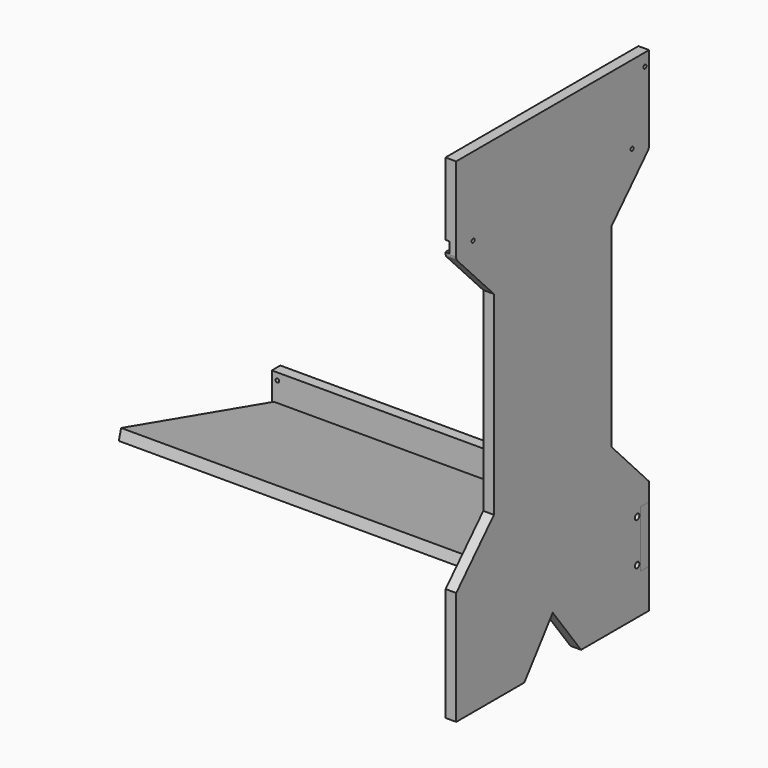
from build123d import *

# Parameters (mm, degrees)
F1_DEPTH  = 19.05
F2_W      = 19.05
F2_H      = 101.6
F3_DEPTH  = 660.4
F5_DEPTH  = 7.62
F7_DEPTH  = 7.62
F9_DEPTH  = 637.54
F10_R     = 3.302
F11_DEPTH = 19.05
F12_R     = 3.302
F13_DEPTH = 19.05
F14_R     = 5.08
F15_DEPTH = 16.002


with BuildPart() as f1:
    # F0 (on Right) → F1 (new body)
    with BuildSketch(Plane.YZ):
        with BuildLine():
            Line((215.5718380434, -73.1457177276), (215.5718380434, 77.6576289354))
            Line((215.5718380434, 77.6576289354), (-216.2281619566, 77.6576289354))
            Line((-216.2281619566, 77.6576289354), (-216.2281619566, -73.1457177276))
            ThreePointArc((-216.2281619566, -73.1457177276), (-215.4974164781, -76.9292027834), (-213.4102959787, -80.1684428397))
            Line((-213.4102959787, -80.1684428397), (-131.5366946364, -165.7658347835))
            Line((-131.5366946364, -165.7658347835), (-131.5366946364, -513.7458347835))
            Line((-131.5366946364, -513.7458347835), (-215.9, -602.6458347835))
            Line((-215.9, -602.6458347835), (-215.9, -805.8458347835))
            Line((-215.9, -805.8458347835), (-63.5, -805.8458347835))
            Line((-63.5, -805.8458347835), (0, -721.4879393578))
            Line((0, -721.4879393578), (63.5, -805.8458347835))
            Line((63.5, -805.8458347835), (215.9, -805.8458347835))
            Line((215.9, -805.8458347835), (215.9, -735.9958347835))
            Line((215.9, -735.9958347835), (196.85, -735.9958347835))
            Line((196.85, -735.9958347835), (196.85, -634.3958347835))
            Line((196.85, -634.3958347835), (215.9, -634.3958347835))
            Line((215.9, -634.3958347835), (215.9, -602.6458347835))
            Line((215.9, -602.6458347835), (131.5366946364, -513.7458347835))
            Line((131.5366946364, -513.7458347835), (131.5366946364, -165.7658347835))
            Line((131.5366946364, -165.7658347835), (212.7821361166, -80.1388791238))
            ThreePointArc((212.7821361166, -80.1388791238), (214.8486761904, -76.9102476834), (215.5718380434, -73.1457177276))
        make_face()
    extrude(amount=F1_DEPTH)

    # F4 (on face) → F5 (cut)
    with BuildSketch(Plane.YZ):
        Polygon((191.6083546797, -700.9198329832), (196.842453582, -682.6029907695), (-145.0719344069, -584.8998112603), (-150.3060333092, -603.216653474), align=None)
    extrude(amount=F5_DEPTH, mode=Mode.SUBTRACT)

    # F6 (on face) → F7 (cut)
    with BuildSketch(Plane.YZ):
        Polygon((-216.2281619566, -71.2764377356), (216.1737249309, -71.2764377356), (215.5718380434, -52.2264377356), (-216.2281619566, -52.2264377356), align=None)
    extrude(amount=F7_DEPTH, mode=Mode.SUBTRACT)

    # F12 (on face) → F13 (cut)
    with BuildSketch(Plane.YZ.offset(19.05)):
        with Locations((177.4718380434, -62.6404377356)):
            Circle(F12_R)
        with Locations((-178.1281619566, -62.6404377356)):
            Circle(F12_R)
        with Locations((206.4278380434, 55.3056289354)):
            Circle(F12_R)
    extrude(amount=-F13_DEPTH, mode=Mode.SUBTRACT)

    # F14 (on face) → F15 (cut)
    with BuildSketch(Plane.YZ.offset(19.05)):
        with Locations((188.714453582, -723.2958347835)):
            Circle(F14_R)
        with Locations((188.714453582, -647.0958347835)):
            Circle(F14_R)
    extrude(amount=-F15_DEPTH, mode=Mode.SUBTRACT)


with BuildPart() as f3:
    # F2 (on face) → F3 (new body)
    with BuildSketch(Plane.YZ.offset(19.05)):
        with Locations((206.367453582, -685.1958350637)):
            Rectangle(F2_W, F2_H)
    extrude(amount=-F3_DEPTH)

    # F10 (on face) → F11 (cut)
    with BuildSketch(Plane(origin=(0, 215.892453582, 0), x_dir=(-1, 0, 0), z_dir=(0, 1, 0))):
        with Locations((-9.144, -647.0958347835)):
            Circle(F10_R)
        with Locations((-9.144, -723.2958347835)):
            Circle(F10_R)
        with Locations((631.444, -647.0958347835)):
            Circle(F10_R)
        with Locations((631.444, -723.2958347835)):
            Circle(F10_R)
    extrude(amount=-F11_DEPTH, mode=Mode.SUBTRACT)


with BuildPart() as f9:
    # F8 (on face) → F9 (new body)
    with BuildSketch(Plane.YZ):
        Polygon((191.6083546797, -700.9198329832), (196.842453582, -682.6029907695), (-145.0719344069, -584.8998112603), (-150.3060333092, -603.216653474), align=None)
    extrude(amount=-F9_DEPTH)


solid = Compound([f1.part, f3.part, f9.part])
